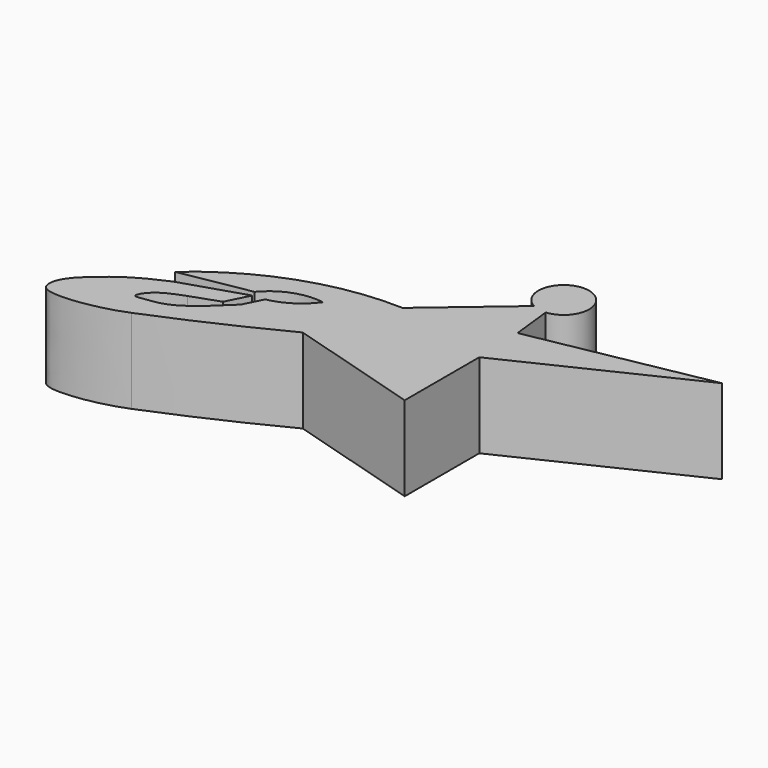
from build123d import *

# Parameters (mm, degrees)
F1_DEPTH = 10


with BuildPart() as f1:
    # F0 (on Top) → F1 (new body)
    with BuildSketch(Plane.XY):
        with BuildLine():
            Line((8.478207631, 12.3410948754), (-0.7716447129, 4.4630723743))
            ThreePointArc((-0.7716447129, 4.4630723743), (-11.9538408238, 2.7223708892), (-21.6962108707, -3.0359081413))
            Line((-21.6962108707, -3.0359081413), (-13.4434893382, -1.5644171497))
            ThreePointArc((-13.4434893382, -1.5644171497), (-10.6393236092, 0.4238918783), (-7.2186087971, 0.7636394335))
            ThreePointArc((-7.2186087971, 0.7636394335), (-9.2041796913, -1.1162314275), (-11.7406081274, -2.1374743066))
            Line((-11.7406081274, -2.1374743066), (-12.8516519005, -4.3556968285))
            add(Edge.make_bspline(
                [(-12.8516519005, -4.3556968285), (-13.7568916342, -5.2365663524), (-15.4952149852, -6.9280918184), (-18.1000884601, -8.7839051211), (-20.5113942152, -9.0591117823), (-21.9850725902, -9.2691445705), (-20.745626651, -7.1945055447), (-18.868340283, -6.495085517), (-17.7566145109, -6.0808901744)],
                knots=[0, 0, 0, 0, 0.2069867198, 0.3974746523, 0.566423919, 0.6670254821, 0.8028130608, 1, 1, 1, 1], degree=3))
            add(Edge.make_bspline(
                [(-17.7566145109, -6.0808901744), (-16.6666228197, -5.6975138753), (-15.5766311285, -5.3141375762), (-14.4866394373, -4.9307612771)],
                knots=[0, 0, 0, 0, 3.4663429522, 3.4663429522, 3.4663429522, 3.4663429522], degree=3))
            Line((-14.4866394373, -4.9307612771), (-13.1572225625, -2.2765522135))
            Line((-13.1572225625, -2.2765522135), (-20.6759641441, -4.6826065459))
            add(Edge.make_bspline(
                [(-20.6759641441, -4.6826065459), (-21.6949960064, -5.1413180449), (-23.7893254622, -6.0842111683), (-26.5134455561, -8.0502545567), (-29.3349164644, -10.6659635913), (-29.4655953345, -13.2765924141), (-26.5513052044, -13.5797258028), (-22.9693722214, -13.0632618836), (-20.6006690632, -12.3292936437), (-19.6821269664, -11.937062042)],
                knots=[0, 0, 0, 0, 0.1483192347, 0.2988701954, 0.4564156656, 0.5675018666, 0.6920148357, 0.8505478815, 1, 1, 1, 1], degree=3))
            ThreePointArc((-19.6821269664, -11.937062042), (-12.2092242102, -8.7042525804), (-4.8919349, -5.133172944))
            Line((-4.8919349, -5.133172944), (10.9284820036, -9.8356416623))
            Line((10.9284820036, -9.8356416623), (10.9284820036, 1.1840370476))
            Line((10.9284820036, 1.1840370476), (31.6714221652, 11.1300866483))
            Line((31.6714221652, 11.1300866483), (10.6644276728, 7.1692703639))
            Line((10.6644276728, 7.1692703639), (10.1219221884, 12.011635341))
            ThreePointArc((10.1219221884, 12.011635341), (10.4557474141, 17.9422087335), (8.478207631, 12.3410948754))
        make_face()
    extrude(amount=F1_DEPTH)


solid = f1.part
